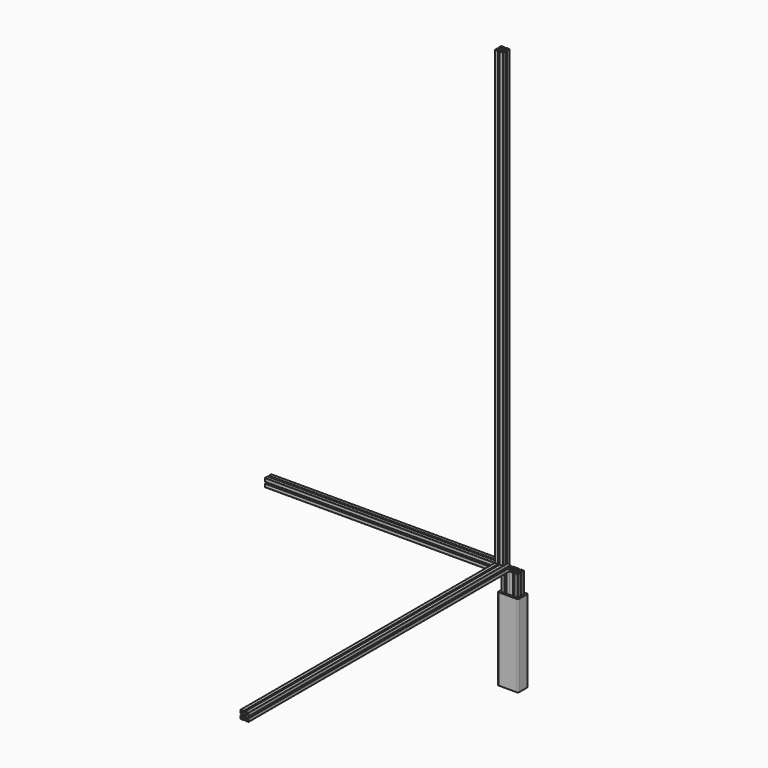
from build123d import *

# Parameters (mm, degrees)
F0_R      = 4
F1_DEPTH  = 1588
F2_DEPTH  = 2200
F3_ANGLE  = 90
F4_DEPTH  = 1120
F5_ANGLE  = -90
F6_DEPTH  = 500
F7_ANGLE  = 90
F8_DEPTH  = 30
F9_W      = 60
F9_H      = 60
F10_DEPTH = 400
F11_W     = 10
F11_H     = 400
F12_DEPTH = 25
F13_R     = 5
F16_W     = 100
F16_H     = 60
F17_DEPTH = 400
F18_R     = 5


with BuildPart() as f1:
    # F0 (on Front) → F1 (new body)
    with BuildSketch(Plane.XZ):
        with BuildLine():
            Line((4.2, -20), (19, -20))
            ThreePointArc((19, -20), (19.7071067812, -19.7071067812), (20, -19))
            Line((20, -19), (20, -4.2))
            Line((20, -4.2), (16, -4.2))
            Line((16, -4.2), (16, -7.25))
            Line((16, -7.25), (9.3609854211, -7.25))
            ThreePointArc((9.3609854211, -7.25), (6, 0), (9.3609854211, 7.25))
            Line((9.3609854211, 7.25), (16, 7.25))
            Line((16, 7.25), (16, 4.2))
            Line((16, 4.2), (20, 4.2))
            Line((20, 4.2), (20, 19))
            ThreePointArc((20, 19), (19.7071067812, 19.7071067812), (19, 20))
            Line((19, 20), (4.2, 20))
            Line((4.2, 20), (4.2, 16))
            Line((4.2, 16), (7.25, 16))
            Line((7.25, 16), (7.25, 9.3609854211))
            ThreePointArc((7.25, 9.3609854211), (0, 6), (-7.25, 9.3609854211))
            Line((-7.25, 9.3609854211), (-7.25, 16))
            Line((-7.25, 16), (-4.2, 16))
            Line((-4.2, 16), (-4.2, 20))
            Line((-4.2, 20), (-19, 20))
            ThreePointArc((-19, 20), (-19.7071067812, 19.7071067812), (-20, 19))
            Line((-20, 19), (-20, 4.2))
            Line((-20, 4.2), (-16, 4.2))
            Line((-16, 4.2), (-16, 7.25))
            Line((-16, 7.25), (-9.3609854211, 7.25))
            ThreePointArc((-9.3609854211, 7.25), (-6, 0), (-9.3609854211, -7.25))
            Line((-9.3609854211, -7.25), (-16, -7.25))
            Line((-16, -7.25), (-16, -4.2))
            Line((-16, -4.2), (-20, -4.2))
            Line((-20, -4.2), (-20, -19))
            ThreePointArc((-20, -19), (-19.7071067812, -19.7071067812), (-19, -20))
            Line((-19, -20), (-4.2, -20))
            Line((-4.2, -20), (-4.2, -16))
            Line((-4.2, -16), (-7.25, -16))
            Line((-7.25, -16), (-7.25, -9.3609854211))
            ThreePointArc((-7.25, -9.3609854211), (0, -6), (7.25, -9.3609854211))
            Line((7.25, -9.3609854211), (7.25, -16))
            Line((7.25, -16), (4.2, -16))
            Line((4.2, -16), (4.2, -20))
        make_face()
        with Locations((-13.5, -13.5)):
            Circle(F0_R, mode=Mode.SUBTRACT)
        with Locations((13.5, -13.5)):
            Circle(F0_R, mode=Mode.SUBTRACT)
        with Locations((-13.5, 13.5)):
            Circle(F0_R, mode=Mode.SUBTRACT)
        with BuildLine():
            ThreePointArc((-3.0614420743, -1.47904443), (-2.9444863729, 1.7), (-0.2498309874, 3.3908088235))
            ThreePointArc((-0.2498309874, 3.3908088235), (0, 3.65), (0.2498309874, 3.3908088235))
            ThreePointArc((0.2498309874, 3.3908088235), (2.9444863729, 1.7), (3.0614420743, -1.47904443))
            ThreePointArc((3.0614420743, -1.47904443), (3.1609927238, -1.825), (2.8116110868, -1.9117643935))
            ThreePointArc((2.8116110868, -1.9117643935), (0, -3.4), (-2.8116110868, -1.9117643935))
            ThreePointArc((-2.8116110868, -1.9117643935), (-3.1609927238, -1.825), (-3.0614420743, -1.47904443))
        make_face(mode=Mode.SUBTRACT)
        with Locations((13.5, 13.5)):
            Circle(F0_R, mode=Mode.SUBTRACT)
    extrude(amount=F1_DEPTH)

    # F11 (on face) → F12 (cut)
    with BuildSketch(Plane(origin=(-30, 0, 0), x_dir=(0, -1, 0), z_dir=(-1, 0, 0))):
        with Locations((-20, -320)):
            Rectangle(F11_W, F11_H)
    extrude(amount=F12_DEPTH, mode=Mode.SUBTRACT)


with BuildPart() as f2:
    # F0 (on Front) → F2 (new body)
    with BuildSketch(Plane.XZ):
        with BuildLine():
            Line((4.2, -20), (19, -20))
            ThreePointArc((19, -20), (19.7071067812, -19.7071067812), (20, -19))
            Line((20, -19), (20, -4.2))
            Line((20, -4.2), (16, -4.2))
            Line((16, -4.2), (16, -7.25))
            Line((16, -7.25), (9.3609854211, -7.25))
            ThreePointArc((9.3609854211, -7.25), (6, 0), (9.3609854211, 7.25))
            Line((9.3609854211, 7.25), (16, 7.25))
            Line((16, 7.25), (16, 4.2))
            Line((16, 4.2), (20, 4.2))
            Line((20, 4.2), (20, 19))
            ThreePointArc((20, 19), (19.7071067812, 19.7071067812), (19, 20))
            Line((19, 20), (4.2, 20))
            Line((4.2, 20), (4.2, 16))
            Line((4.2, 16), (7.25, 16))
            Line((7.25, 16), (7.25, 9.3609854211))
            ThreePointArc((7.25, 9.3609854211), (0, 6), (-7.25, 9.3609854211))
            Line((-7.25, 9.3609854211), (-7.25, 16))
            Line((-7.25, 16), (-4.2, 16))
            Line((-4.2, 16), (-4.2, 20))
            Line((-4.2, 20), (-19, 20))
            ThreePointArc((-19, 20), (-19.7071067812, 19.7071067812), (-20, 19))
            Line((-20, 19), (-20, 4.2))
            Line((-20, 4.2), (-16, 4.2))
            Line((-16, 4.2), (-16, 7.25))
            Line((-16, 7.25), (-9.3609854211, 7.25))
            ThreePointArc((-9.3609854211, 7.25), (-6, 0), (-9.3609854211, -7.25))
            Line((-9.3609854211, -7.25), (-16, -7.25))
            Line((-16, -7.25), (-16, -4.2))
            Line((-16, -4.2), (-20, -4.2))
            Line((-20, -4.2), (-20, -19))
            ThreePointArc((-20, -19), (-19.7071067812, -19.7071067812), (-19, -20))
            Line((-19, -20), (-4.2, -20))
            Line((-4.2, -20), (-4.2, -16))
            Line((-4.2, -16), (-7.25, -16))
            Line((-7.25, -16), (-7.25, -9.3609854211))
            ThreePointArc((-7.25, -9.3609854211), (0, -6), (7.25, -9.3609854211))
            Line((7.25, -9.3609854211), (7.25, -16))
            Line((7.25, -16), (4.2, -16))
            Line((4.2, -16), (4.2, -20))
        make_face()
        with Locations((-13.5, -13.5)):
            Circle(F0_R, mode=Mode.SUBTRACT)
        with Locations((13.5, -13.5)):
            Circle(F0_R, mode=Mode.SUBTRACT)
        with Locations((-13.5, 13.5)):
            Circle(F0_R, mode=Mode.SUBTRACT)
        with BuildLine():
            ThreePointArc((-3.0614420743, -1.47904443), (-2.9444863729, 1.7), (-0.2498309874, 3.3908088235))
            ThreePointArc((-0.2498309874, 3.3908088235), (0, 3.65), (0.2498309874, 3.3908088235))
            ThreePointArc((0.2498309874, 3.3908088235), (2.9444863729, 1.7), (3.0614420743, -1.47904443))
            ThreePointArc((3.0614420743, -1.47904443), (3.1609927238, -1.825), (2.8116110868, -1.9117643935))
            ThreePointArc((2.8116110868, -1.9117643935), (0, -3.4), (-2.8116110868, -1.9117643935))
            ThreePointArc((-2.8116110868, -1.9117643935), (-3.1609927238, -1.825), (-3.0614420743, -1.47904443))
        make_face(mode=Mode.SUBTRACT)
        with Locations((13.5, 13.5)):
            Circle(F0_R, mode=Mode.SUBTRACT)
    extrude(amount=F2_DEPTH)


with BuildPart() as f2_1:
    # F3: moved
    add(f2.part.rotate(Axis((11.6, 0, 20), (-1, 0, 0)), F3_ANGLE))


with BuildPart() as f4:
    # F0 (on Front) → F4 (new body)
    with BuildSketch(Plane.XZ):
        with BuildLine():
            Line((4.2, -20), (19, -20))
            ThreePointArc((19, -20), (19.7071067812, -19.7071067812), (20, -19))
            Line((20, -19), (20, -4.2))
            Line((20, -4.2), (16, -4.2))
            Line((16, -4.2), (16, -7.25))
            Line((16, -7.25), (9.3609854211, -7.25))
            ThreePointArc((9.3609854211, -7.25), (6, 0), (9.3609854211, 7.25))
            Line((9.3609854211, 7.25), (16, 7.25))
            Line((16, 7.25), (16, 4.2))
            Line((16, 4.2), (20, 4.2))
            Line((20, 4.2), (20, 19))
            ThreePointArc((20, 19), (19.7071067812, 19.7071067812), (19, 20))
            Line((19, 20), (4.2, 20))
            Line((4.2, 20), (4.2, 16))
            Line((4.2, 16), (7.25, 16))
            Line((7.25, 16), (7.25, 9.3609854211))
            ThreePointArc((7.25, 9.3609854211), (0, 6), (-7.25, 9.3609854211))
            Line((-7.25, 9.3609854211), (-7.25, 16))
            Line((-7.25, 16), (-4.2, 16))
            Line((-4.2, 16), (-4.2, 20))
            Line((-4.2, 20), (-19, 20))
            ThreePointArc((-19, 20), (-19.7071067812, 19.7071067812), (-20, 19))
            Line((-20, 19), (-20, 4.2))
            Line((-20, 4.2), (-16, 4.2))
            Line((-16, 4.2), (-16, 7.25))
            Line((-16, 7.25), (-9.3609854211, 7.25))
            ThreePointArc((-9.3609854211, 7.25), (-6, 0), (-9.3609854211, -7.25))
            Line((-9.3609854211, -7.25), (-16, -7.25))
            Line((-16, -7.25), (-16, -4.2))
            Line((-16, -4.2), (-20, -4.2))
            Line((-20, -4.2), (-20, -19))
            ThreePointArc((-20, -19), (-19.7071067812, -19.7071067812), (-19, -20))
            Line((-19, -20), (-4.2, -20))
            Line((-4.2, -20), (-4.2, -16))
            Line((-4.2, -16), (-7.25, -16))
            Line((-7.25, -16), (-7.25, -9.3609854211))
            ThreePointArc((-7.25, -9.3609854211), (0, -6), (7.25, -9.3609854211))
            Line((7.25, -9.3609854211), (7.25, -16))
            Line((7.25, -16), (4.2, -16))
            Line((4.2, -16), (4.2, -20))
        make_face()
        with Locations((-13.5, -13.5)):
            Circle(F0_R, mode=Mode.SUBTRACT)
        with Locations((13.5, -13.5)):
            Circle(F0_R, mode=Mode.SUBTRACT)
        with Locations((-13.5, 13.5)):
            Circle(F0_R, mode=Mode.SUBTRACT)
        with BuildLine():
            ThreePointArc((-3.0614420743, -1.47904443), (-2.9444863729, 1.7), (-0.2498309874, 3.3908088235))
            ThreePointArc((-0.2498309874, 3.3908088235), (0, 3.65), (0.2498309874, 3.3908088235))
            ThreePointArc((0.2498309874, 3.3908088235), (2.9444863729, 1.7), (3.0614420743, -1.47904443))
            ThreePointArc((3.0614420743, -1.47904443), (3.1609927238, -1.825), (2.8116110868, -1.9117643935))
            ThreePointArc((2.8116110868, -1.9117643935), (0, -3.4), (-2.8116110868, -1.9117643935))
            ThreePointArc((-2.8116110868, -1.9117643935), (-3.1609927238, -1.825), (-3.0614420743, -1.47904443))
        make_face(mode=Mode.SUBTRACT)
        with Locations((13.5, 13.5)):
            Circle(F0_R, mode=Mode.SUBTRACT)
    extrude(amount=F4_DEPTH)


with BuildPart() as f4_1:
    # F5: moved
    add(f4.part.rotate(Axis((-20, 0, 0), (0, 0, 1)), F5_ANGLE))


with BuildPart() as f6:
    # F0 (on Front) → F6 (new body)
    with BuildSketch(Plane.XZ):
        with BuildLine():
            Line((4.2, -20), (19, -20))
            ThreePointArc((19, -20), (19.7071067812, -19.7071067812), (20, -19))
            Line((20, -19), (20, -4.2))
            Line((20, -4.2), (16, -4.2))
            Line((16, -4.2), (16, -7.25))
            Line((16, -7.25), (9.3609854211, -7.25))
            ThreePointArc((9.3609854211, -7.25), (6, 0), (9.3609854211, 7.25))
            Line((9.3609854211, 7.25), (16, 7.25))
            Line((16, 7.25), (16, 4.2))
            Line((16, 4.2), (20, 4.2))
            Line((20, 4.2), (20, 19))
            ThreePointArc((20, 19), (19.7071067812, 19.7071067812), (19, 20))
            Line((19, 20), (4.2, 20))
            Line((4.2, 20), (4.2, 16))
            Line((4.2, 16), (7.25, 16))
            Line((7.25, 16), (7.25, 9.3609854211))
            ThreePointArc((7.25, 9.3609854211), (0, 6), (-7.25, 9.3609854211))
            Line((-7.25, 9.3609854211), (-7.25, 16))
            Line((-7.25, 16), (-4.2, 16))
            Line((-4.2, 16), (-4.2, 20))
            Line((-4.2, 20), (-19, 20))
            ThreePointArc((-19, 20), (-19.7071067812, 19.7071067812), (-20, 19))
            Line((-20, 19), (-20, 4.2))
            Line((-20, 4.2), (-16, 4.2))
            Line((-16, 4.2), (-16, 7.25))
            Line((-16, 7.25), (-9.3609854211, 7.25))
            ThreePointArc((-9.3609854211, 7.25), (-6, 0), (-9.3609854211, -7.25))
            Line((-9.3609854211, -7.25), (-16, -7.25))
            Line((-16, -7.25), (-16, -4.2))
            Line((-16, -4.2), (-20, -4.2))
            Line((-20, -4.2), (-20, -19))
            ThreePointArc((-20, -19), (-19.7071067812, -19.7071067812), (-19, -20))
            Line((-19, -20), (-4.2, -20))
            Line((-4.2, -20), (-4.2, -16))
            Line((-4.2, -16), (-7.25, -16))
            Line((-7.25, -16), (-7.25, -9.3609854211))
            ThreePointArc((-7.25, -9.3609854211), (0, -6), (7.25, -9.3609854211))
            Line((7.25, -9.3609854211), (7.25, -16))
            Line((7.25, -16), (4.2, -16))
            Line((4.2, -16), (4.2, -20))
        make_face()
        with Locations((-13.5, -13.5)):
            Circle(F0_R, mode=Mode.SUBTRACT)
        with Locations((13.5, -13.5)):
            Circle(F0_R, mode=Mode.SUBTRACT)
        with Locations((-13.5, 13.5)):
            Circle(F0_R, mode=Mode.SUBTRACT)
        with BuildLine():
            ThreePointArc((-3.0614420743, -1.47904443), (-2.9444863729, 1.7), (-0.2498309874, 3.3908088235))
            ThreePointArc((-0.2498309874, 3.3908088235), (0, 3.65), (0.2498309874, 3.3908088235))
            ThreePointArc((0.2498309874, 3.3908088235), (2.9444863729, 1.7), (3.0614420743, -1.47904443))
            ThreePointArc((3.0614420743, -1.47904443), (3.1609927238, -1.825), (2.8116110868, -1.9117643935))
            ThreePointArc((2.8116110868, -1.9117643935), (0, -3.4), (-2.8116110868, -1.9117643935))
            ThreePointArc((-2.8116110868, -1.9117643935), (-3.1609927238, -1.825), (-3.0614420743, -1.47904443))
        make_face(mode=Mode.SUBTRACT)
        with Locations((13.5, 13.5)):
            Circle(F0_R, mode=Mode.SUBTRACT)
    extrude(amount=-F6_DEPTH)


with BuildPart() as f6_1:
    # F7: moved
    add(f6.part.rotate(Axis((0, 0, -20), (-1, 0, 0)), F7_ANGLE))


with BuildPart() as f8:
    # F0 (on Front) → F8 (new body)
    with BuildSketch(Plane.XZ):
        with BuildLine():
            Line((4.2, -20), (19, -20))
            ThreePointArc((19, -20), (19.7071067812, -19.7071067812), (20, -19))
            Line((20, -19), (20, -4.2))
            Line((20, -4.2), (16, -4.2))
            Line((16, -4.2), (16, -7.25))
            Line((16, -7.25), (9.3609854211, -7.25))
            ThreePointArc((9.3609854211, -7.25), (6, 0), (9.3609854211, 7.25))
            Line((9.3609854211, 7.25), (16, 7.25))
            Line((16, 7.25), (16, 4.2))
            Line((16, 4.2), (20, 4.2))
            Line((20, 4.2), (20, 19))
            ThreePointArc((20, 19), (19.7071067812, 19.7071067812), (19, 20))
            Line((19, 20), (4.2, 20))
            Line((4.2, 20), (4.2, 16))
            Line((4.2, 16), (7.25, 16))
            Line((7.25, 16), (7.25, 9.3609854211))
            ThreePointArc((7.25, 9.3609854211), (0, 6), (-7.25, 9.3609854211))
            Line((-7.25, 9.3609854211), (-7.25, 16))
            Line((-7.25, 16), (-4.2, 16))
            Line((-4.2, 16), (-4.2, 20))
            Line((-4.2, 20), (-19, 20))
            ThreePointArc((-19, 20), (-19.7071067812, 19.7071067812), (-20, 19))
            Line((-20, 19), (-20, 4.2))
            Line((-20, 4.2), (-16, 4.2))
            Line((-16, 4.2), (-16, 7.25))
            Line((-16, 7.25), (-9.3609854211, 7.25))
            ThreePointArc((-9.3609854211, 7.25), (-6, 0), (-9.3609854211, -7.25))
            Line((-9.3609854211, -7.25), (-16, -7.25))
            Line((-16, -7.25), (-16, -4.2))
            Line((-16, -4.2), (-20, -4.2))
            Line((-20, -4.2), (-20, -19))
            ThreePointArc((-20, -19), (-19.7071067812, -19.7071067812), (-19, -20))
            Line((-19, -20), (-4.2, -20))
            Line((-4.2, -20), (-4.2, -16))
            Line((-4.2, -16), (-7.25, -16))
            Line((-7.25, -16), (-7.25, -9.3609854211))
            ThreePointArc((-7.25, -9.3609854211), (0, -6), (7.25, -9.3609854211))
            Line((7.25, -9.3609854211), (7.25, -16))
            Line((7.25, -16), (4.2, -16))
            Line((4.2, -16), (4.2, -20))
        make_face()
        with Locations((-13.5, -13.5)):
            Circle(F0_R, mode=Mode.SUBTRACT)
        with Locations((13.5, -13.5)):
            Circle(F0_R, mode=Mode.SUBTRACT)
        with Locations((-13.5, 13.5)):
            Circle(F0_R, mode=Mode.SUBTRACT)
        with BuildLine():
            ThreePointArc((-3.0614420743, -1.47904443), (-2.9444863729, 1.7), (-0.2498309874, 3.3908088235))
            ThreePointArc((-0.2498309874, 3.3908088235), (0, 3.65), (0.2498309874, 3.3908088235))
            ThreePointArc((0.2498309874, 3.3908088235), (2.9444863729, 1.7), (3.0614420743, -1.47904443))
            ThreePointArc((3.0614420743, -1.47904443), (3.1609927238, -1.825), (2.8116110868, -1.9117643935))
            ThreePointArc((2.8116110868, -1.9117643935), (0, -3.4), (-2.8116110868, -1.9117643935))
            ThreePointArc((-2.8116110868, -1.9117643935), (-3.1609927238, -1.825), (-3.0614420743, -1.47904443))
        make_face(mode=Mode.SUBTRACT)
        with Locations((13.5, 13.5)):
            Circle(F0_R, mode=Mode.SUBTRACT)
    extrude(amount=F8_DEPTH)


with BuildPart() as f10:
    # F9 (on face) → F10 (new body)
    with BuildSketch(Plane(origin=(0, 0, -520), x_dir=(1, 0, 0), z_dir=(0, 0, -1))):
        with Locations((0, -20)):
            Rectangle(F9_W, F9_H)
        Polygon((20, -39), (20, -40), (19, -40), (4.2, -40), (-4.2, -40), (-19, -40), (-20, -40), (-20, -39), (-20, -24.2), (-20, -15.8), (-20, -1), (-20, 0), (-19, 0), (-4.2, 0), (4.2, 0), (19, 0), (20, 0), (20, -1), (20, -15.8), (20, -24.2), align=None, mode=Mode.SUBTRACT)
    extrude(amount=-F10_DEPTH)

    # F13
    f13_edges = [f10.edges().sort_by_distance(p)[0] for p in [
        (-30, 50, -320),
        (30, 50, -320),
        (30, -10, -320),
        (-30, -10, -320),
    ]]
    fillet(f13_edges, radius=F13_R)


with BuildPart() as f15_1:
    # F15: copy of F6
    add(f6_1.part.moved(Location((40, 0, 0))))


with BuildPart() as f17:
    # F16 (on face) → F17 (new body)
    with BuildSketch(Plane(origin=(0, 0, -520), x_dir=(1, 0, 0), z_dir=(0, 0, -1))):
        with Locations((20, -20)):
            Rectangle(F16_W, F16_H)
        Polygon((-19, -40), (-20, -40), (-20, -39), (-20, -24.2), (-20, -15.8), (-20, -1), (-20, 0), (-19, 0), (-4.2, 0), (4.2, 0), (19, 0), (60, 0), (60, -40), (19, -40), (4.2, -40), (-4.2, -40), align=None, mode=Mode.SUBTRACT)
    extrude(amount=-F17_DEPTH)

    # F18
    f18_edges = [f17.edges().sort_by_distance(p)[0] for p in [
        (-30, -10, -320),
        (-30, 50, -320),
        (70, 50, -320),
        (70, -10, -320),
    ]]
    fillet(f18_edges, radius=F18_R)


solid = Compound([f1.part, f2_1.part, f4_1.part, f6_1.part, f8.part, f15_1.part, f17.part])
